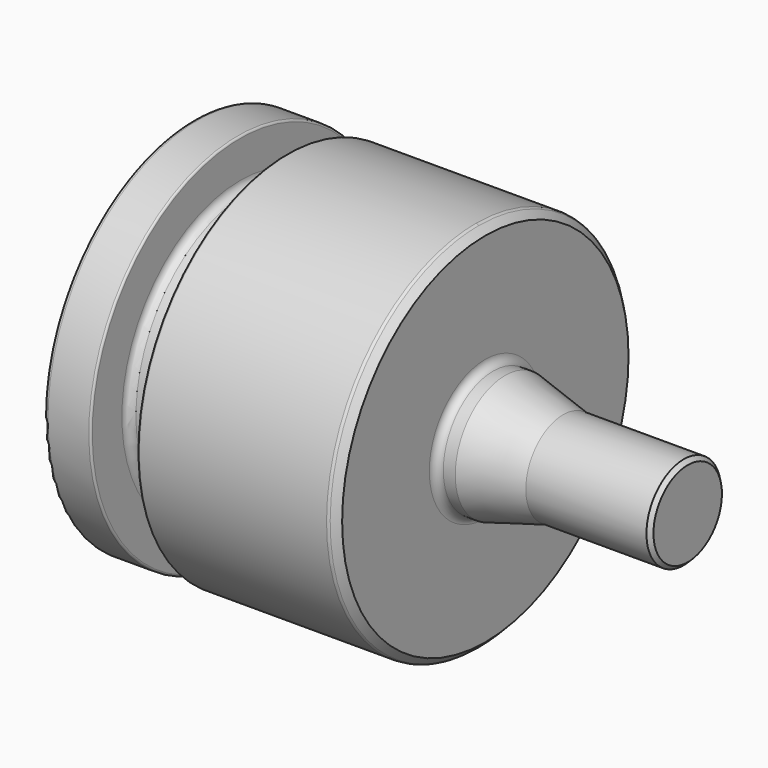
from build123d import *

# Parameters (mm, degrees)
F0_W     = 203.2
F0_H     = 76.2
F4_R     = 31.75
F5_DEPTH = 76.2
F6_R     = 1.5875
F7_R     = 3.175
F10_R    = 0.79375


with BuildPart() as f1:
    # F0 (on Front) → F1 (revolve)
    with BuildSketch(Plane.XZ):
        with Locations((-101.6, -38.1)):
            Rectangle(F0_W, F0_H)
    revolve(axis=Axis((-101.6, 0, 0), (1, 0, 0)))

    # F2 (on Front) → F3 (revolve, cut)
    with BuildSketch(Plane.XZ):
        Polygon((-1.5875, 0), (0, 0), (0, 76.2), (-87.3125, 76.2), (-84.1375, 73.025), (-84.1375, 25.4), (-76.0860226281, 25.4), (-52.3875, 19.05), (-3.175, 19.05), (-1.5875, 17.4625), align=None)
    revolve(axis=Axis((-75.538600795, 0, 0), (-1, 0, 0)), mode=Mode.SUBTRACT)

    # F4 (on face) → F5 (cut)
    with BuildSketch(Plane(origin=(-203.2, 0, 0), x_dir=(0, -1, 0), z_dir=(-1, 0, 0))):
        Circle(F4_R)
    extrude(amount=-F5_DEPTH, mode=Mode.SUBTRACT)

    # F6
    f6_edges = [f1.edges().sort_by_distance(p)[0] for p in [
        (-203.2, 31.75, 0),
        (-203.2, 0, 76.2),
        (-87.3125, 76.2, 0),
        (-87.3125, -76.2, 0),
    ]]
    fillet(f6_edges, radius=F6_R)

    # F7
    f7_edges = [f1.edges().sort_by_distance(p)[0] for p in [
        (-84.1375, 0, -25.4),
    ]]
    fillet(f7_edges, radius=F7_R)

    # F8 (on Front) → F9 (revolve, cut)
    with BuildSketch(Plane.XZ):
        with BuildLine():
            Line((-165.1, 80.0532400608), (-184.15, 80.0532400608))
            Line((-184.15, 80.0532400608), (-184.15, 60.325))
            ThreePointArc((-184.15, 60.325), (-183.2200640303, 58.0799359697), (-180.975, 57.15))
            Line((-180.975, 57.15), (-168.275, 57.15))
            ThreePointArc((-168.275, 57.15), (-166.0299359697, 58.0799359697), (-165.1, 60.325))
            Line((-165.1, 60.325), (-165.1, 80.0532400608))
        make_face()
    revolve(axis=Axis((-52.3875, 0, 0), (1, 0, 0)), mode=Mode.SUBTRACT)

    # F10
    f10_edges = [f1.edges().sort_by_distance(p)[0] for p in [
        (-165.1, 0, 76.2),
        (-184.15, 0, 76.2),
    ]]
    fillet(f10_edges, radius=F10_R)


solid = f1.part
